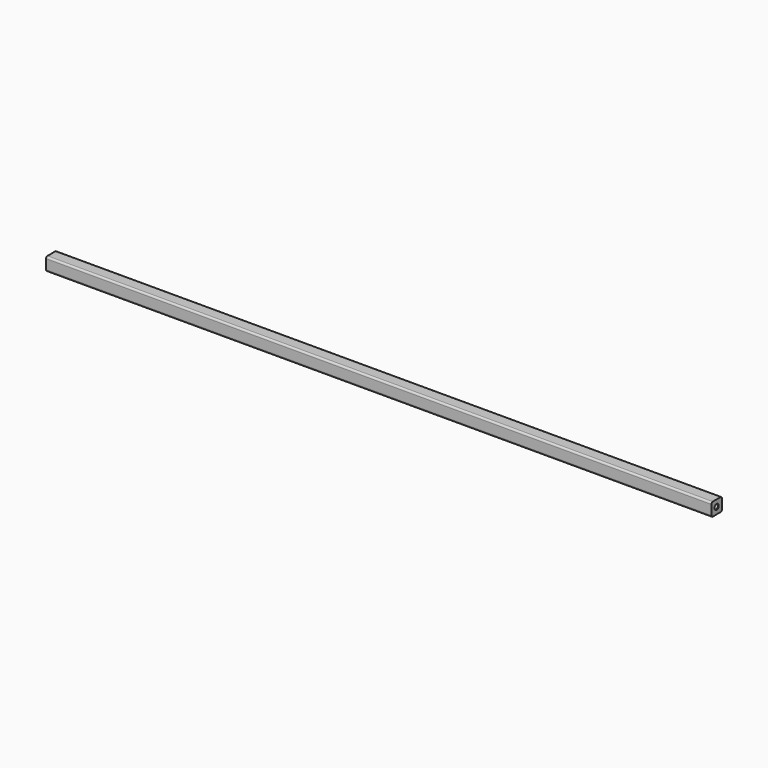
from build123d import *

# Parameters (mm, degrees)
F0_W           = 19.05
F0_H           = 19.05
F1_DEPTH       = 479.425
F3_D           = 6.35
F3_DEPTH       = 25.4
F3_CSINK_D     = 7.62
F3_CSINK_ANGLE = 90
F3_TIP         = 1.9077324654
F5_D           = 6.35
F5_DEPTH       = 25.4
F5_CSINK_D     = 7.62
F5_CSINK_ANGLE = 90
F5_TIP         = 1.9077324654
F6_R           = 2.54


with BuildPart() as f1:
    # F0 (on Right) → F1 (new body, symmetric)
    with BuildSketch(Plane.YZ):
        with Locations((-9.525, 9.525)):
            Rectangle(F0_W, F0_H)
    extrude(amount=F1_DEPTH, both=True)

    # F3
    with Locations(Plane(origin=(-479.425, 0, 0), x_dir=(0, -1, 0), z_dir=(-1, 0, 0))):
        with Locations((9.525, 9.525)):
            CounterSinkHole(F3_D / 2, F3_CSINK_D / 2, depth=F3_DEPTH, counter_sink_angle=F3_CSINK_ANGLE)
            with Locations((0, 0, -(F3_DEPTH + F3_TIP / 2))):  # 118° drill point
                Cone(0, F3_D / 2, F3_TIP, mode=Mode.SUBTRACT)

    # F5
    with Locations(Plane.YZ.offset(479.425)):
        with Locations((-9.525, 9.525)):
            CounterSinkHole(F5_D / 2, F5_CSINK_D / 2, depth=F5_DEPTH, counter_sink_angle=F5_CSINK_ANGLE)
            with Locations((0, 0, -(F5_DEPTH + F5_TIP / 2))):  # 118° drill point
                Cone(0, F5_D / 2, F5_TIP, mode=Mode.SUBTRACT)

    # F6
    f6_edges = [f1.edges().sort_by_distance(p)[0] for p in [
        (0, -19.05, 19.05),
        (0, -19.05, 0),
        (0, 0, 0),
        (0, 0, 19.05),
    ]]
    fillet(f6_edges, radius=F6_R)


solid = f1.part
